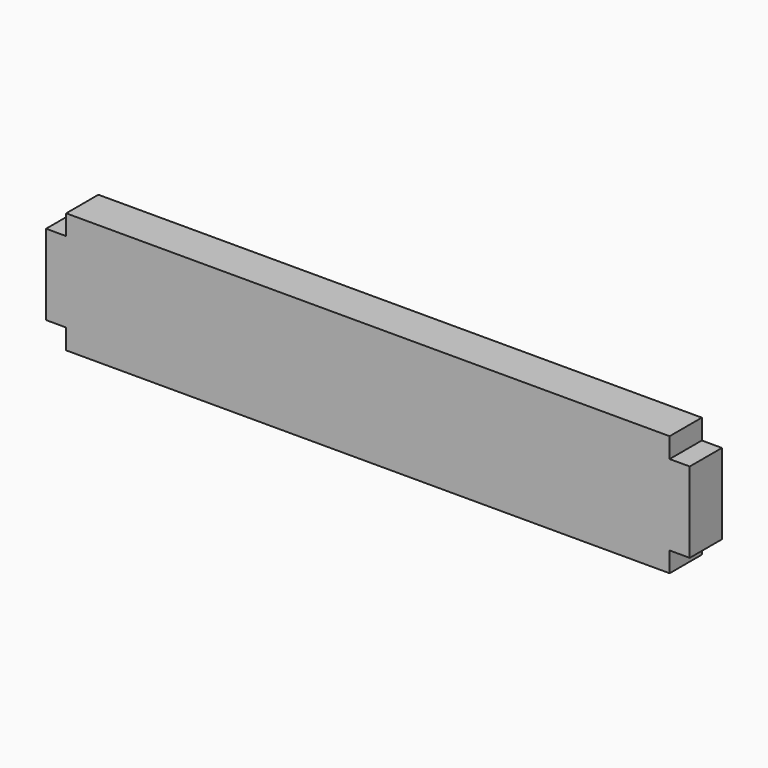
from build123d import *

# Parameters (mm, degrees)
F0_W     = 20
F0_H     = 60
F1_DEPTH = 300
F2_W     = 20
F2_H     = 40
F3_DEPTH = 10
F4_W     = 20
F4_H     = 40
F5_DEPTH = 10


with BuildPart() as f1:
    # F0 (on Right) → F1 (new body)
    with BuildSketch(Plane.YZ):
        with Locations((10, -30)):
            Rectangle(F0_W, F0_H)
    extrude(amount=F1_DEPTH)

    # F2 (on face) → F3 (join)
    with BuildSketch(Plane(origin=(0, 0, 0), x_dir=(0, -1, 0), z_dir=(-1, 0, 0))):
        with Locations((-10, -30)):
            Rectangle(F2_W, F2_H)
    extrude(amount=F3_DEPTH)

    # F4 (on face) → F5 (join)
    with BuildSketch(Plane.YZ.offset(300)):
        with Locations((10, -30)):
            Rectangle(F4_W, F4_H)
    extrude(amount=F5_DEPTH)


solid = f1.part
